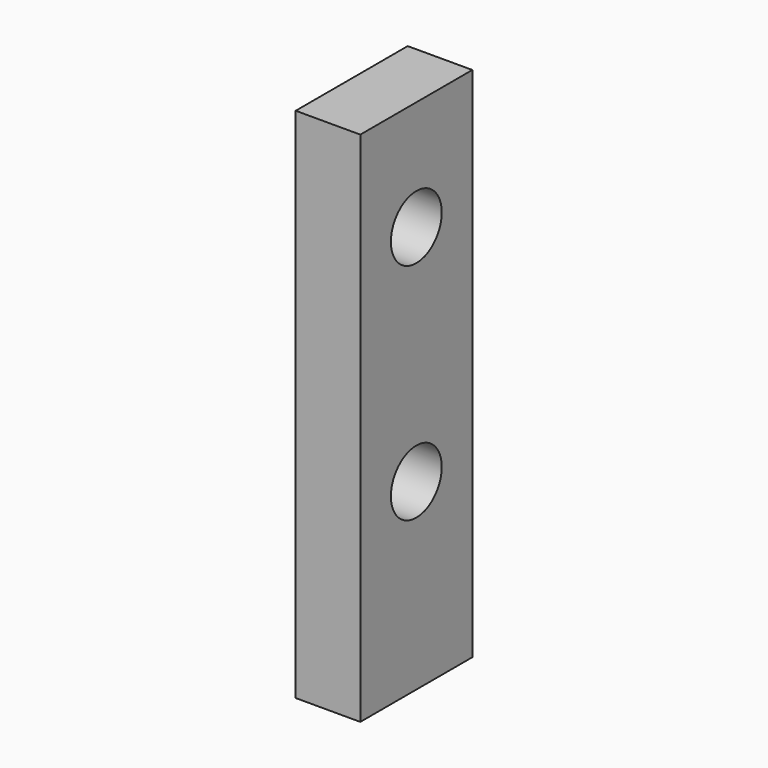
from build123d import *

# Parameters (mm, degrees)
F0_W     = 6.5
F0_H     = 24
F0_R     = 1.475
F1_DEPTH = 3


with BuildPart() as f1:
    # F0 (on Right) → F1 (new body)
    with BuildSketch(Plane.YZ):
        Rectangle(F0_W, F0_H)
        with Locations((0, -3.5)):
            Circle(F0_R, mode=Mode.SUBTRACT)
        with Locations((0, 6.9)):
            Circle(F0_R, mode=Mode.SUBTRACT)
    extrude(amount=F1_DEPTH)


solid = f1.part
